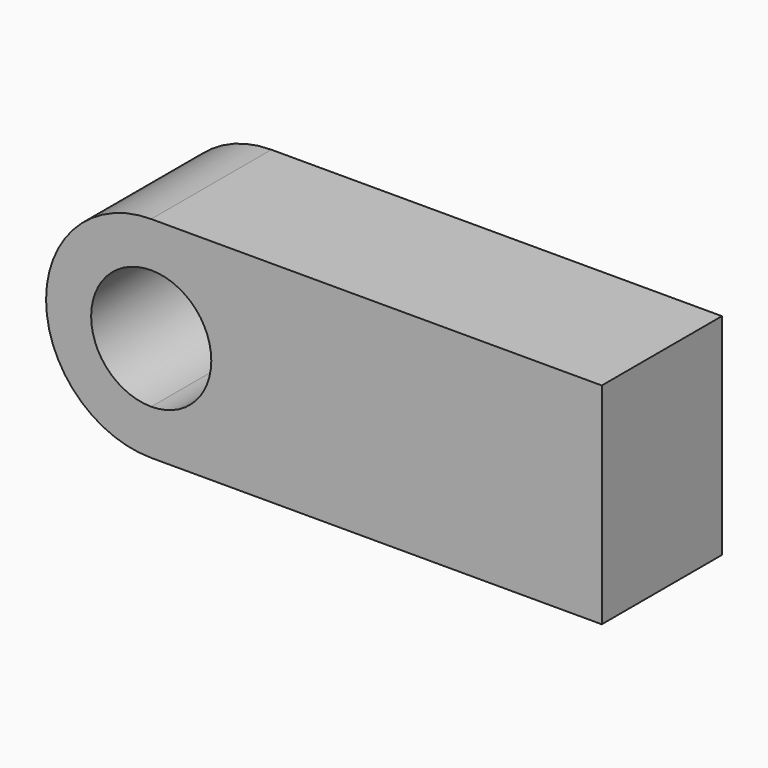
from build123d import *

# Parameters (mm, degrees)
F1_DEPTH = 5


with BuildPart() as f1:
    # F0 (on Front) → F1 (new body)
    with BuildSketch(Plane.XZ):
        with BuildLine():
            ThreePointArc((-4, 0), (-5.025126, 2.474874), (-7.5, 3.5))
            Line((-7.5, 3.5), (-7.5, 2))
            ThreePointArc((-7.5, 2), (-6.085786, 1.414214), (-5.5, 0))
            ThreePointArc((-5.5, 0), (-6.085786, -1.414214), (-7.5, -2))
            Line((-7.5, -2), (-7.5, -3.5))
            ThreePointArc((-7.5, -3.5), (-5.025126, -2.474874), (-4, 0))
        make_face()
        with BuildLine():
            Line((-7.5, 2), (-7.5, 3.5))
            ThreePointArc((-7.5, 3.5), (-11, 0), (-7.5, -3.5))
            Line((-7.5, -3.5), (-7.5, -2))
            ThreePointArc((-7.5, -2), (-9.5, 0), (-7.5, 2))
        make_face()
        with BuildLine():
            Line((7.5, 3.5), (-7.5, 3.5))
            ThreePointArc((-7.5, 3.5), (-5.025126, 2.474874), (-4, 0))
            ThreePointArc((-4, 0), (-5.025126, -2.474874), (-7.5, -3.5))
            Line((-7.5, -3.5), (7.5, -3.5))
            Line((7.5, -3.5), (7.5, 3.5))
        make_face()
    extrude(amount=F1_DEPTH)


solid = f1.part
